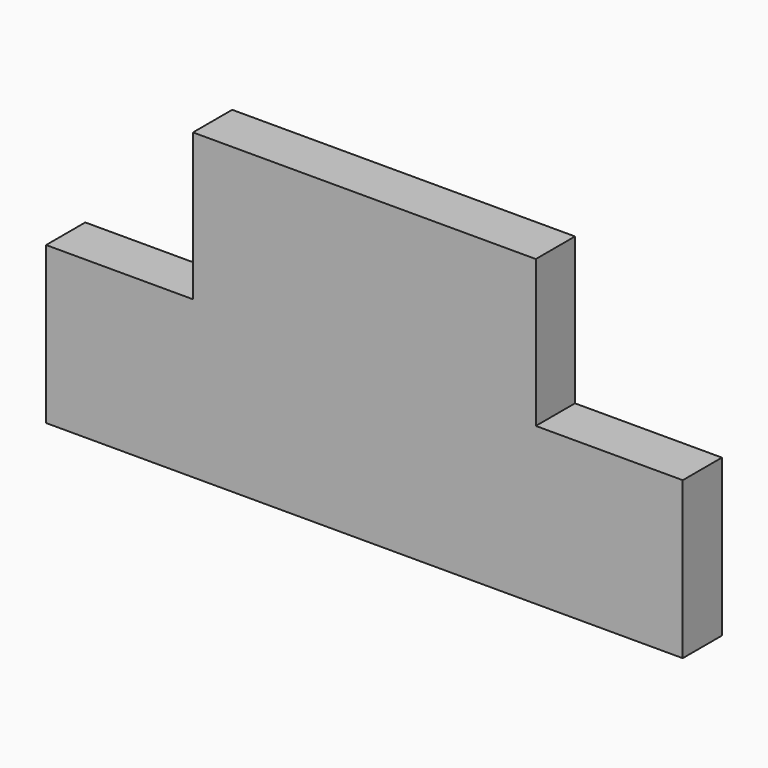
from build123d import *

# Parameters (mm, degrees)
F0_W     = 175
F0_H     = 75
F1_DEPTH = 25


with BuildPart() as f1:
    # F0 (on Front) → F1 (new body)
    with BuildSketch(Plane.XZ):
        with Locations((-67.350752, 37.5)):
            Rectangle(F0_W, F0_H)
        Polygon((-154.850752, 0), (-229.850752, 0), (-229.850752, -80), (95.149248, -80), (95.149248, 0), (20.149248, 0), align=None)
    extrude(amount=F1_DEPTH)


solid = f1.part
